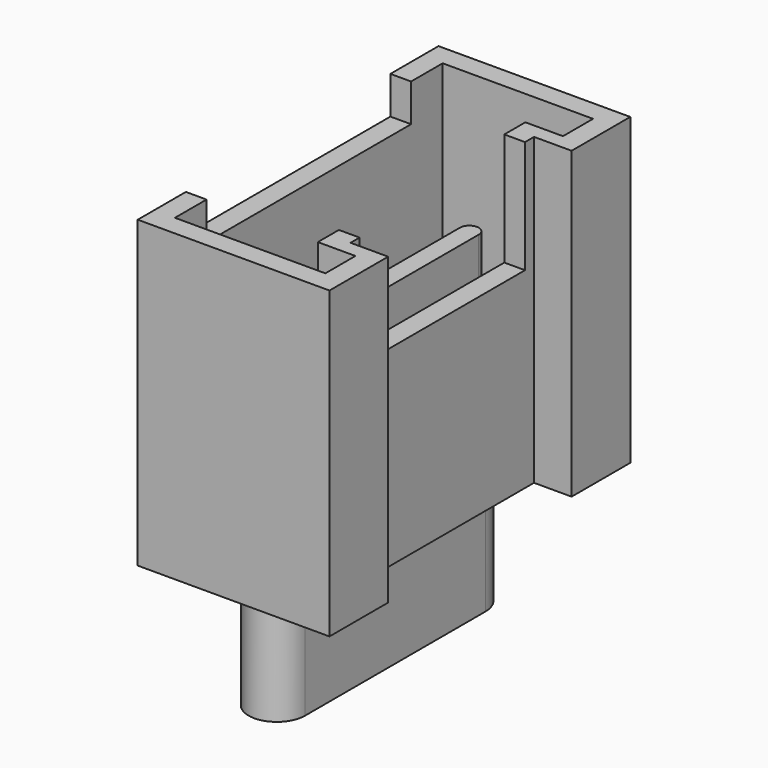
from build123d import *

# Parameters (mm, degrees)
PAD005_DEPTH            = 8.1
POCKET003_DEPTH         = 7
SKETCH010_W             = 6.8
SKETCH010_H             = 5
POCKET006_DEPTH         = 1
SKETCH011_W             = 5.5
SKETCH011_H             = 3
POCKET005_DEPTH         = 3
PAD006_DEPTH            = 4
PAD007_DEPTH            = 3.4
BODY007_PLACEMENT_ANGLE = 90


with BuildPart() as part:
    # Sketch008 → Pad005 (new body)
    with BuildSketch(Plane.XY):
        Polygon((-5, 0), (-3.05, 0), (-3.05, 1), (3.05, 1), (3.05, 0), (5, 0), (5, 5.1), (-5, 5.1), align=None)
    extrude(amount=PAD005_DEPTH)

    # Sketch009 (on Face10 of Pad005) → Pocket003 (cut)
    with BuildSketch(Plane.XY.offset(8.1)):
        Polygon((-4.45, 0.55), (-3.45, 0.55), (-3.45, 1.55), (3.45, 1.55), (3.45, 0.55), (4.45, 0.55), (4.45, 4.55), (-4.45, 4.55), align=None)
    extrude(amount=-POCKET003_DEPTH, mode=Mode.SUBTRACT)

    # Sketch010 (on Face5 of Pocket003) → Pocket006 (cut)
    with BuildSketch(Plane.XY.offset(8.1)):
        with Locations((0, 5.5)):
            Rectangle(SKETCH010_W, SKETCH010_H)
    extrude(amount=-POCKET006_DEPTH, mode=Mode.SUBTRACT)

    # Sketch011 (on Face5 of Pocket006) → Pocket005 (cut)
    with BuildSketch(Plane.XY.offset(8.1)):
        with Locations((0, 1.5)):
            Rectangle(SKETCH011_W, SKETCH011_H)
    extrude(amount=-POCKET005_DEPTH, mode=Mode.SUBTRACT)

    # Sketch015 (on Face26 of Pocket005) → Pad006 (join)
    with BuildSketch(Plane.XY.offset(1.1)):
        with BuildLine():
            ThreePointArc((-3.4, 3.25), (-3.65, 3), (-3.4, 2.75))
            Line((-3.4, 2.75), (3.4, 2.75))
            ThreePointArc((3.4, 2.75), (3.65, 3), (3.4, 3.25))
            Line((-3.4, 3.25), (3.4, 3.25))
        make_face()
    extrude(amount=PAD006_DEPTH)

    # Sketch014 → Pad007 (join)
    with BuildSketch(Plane.XY):
        with BuildLine():
            ThreePointArc((-3, 3.75), (-3.75, 3), (-3, 2.25))
            Line((-3, 2.25), (3, 2.25))
            ThreePointArc((3, 2.25), (3.75, 3), (3, 3.75))
            Line((-3, 3.75), (3, 3.75))
        make_face()
    extrude(amount=-PAD007_DEPTH)


with BuildPart() as part_1:
    # Body007 placement: moved
    add(part.part.moved(Location((-13.8, 0, 1.6))).rotate(Axis((-13.8, 0, 1.6), (0, 0, 1)), BODY007_PLACEMENT_ANGLE))


with BuildPart() as part_2:
    # Clone005 placement: moved
    add(part_1.part.moved(Location((-0.2, 0, 0))))


with BuildPart() as part_3:
    # Body012 placement: moved
    add(part_2.part.moved(Location((6.4, 0, 0))))


solid = part_3.part
